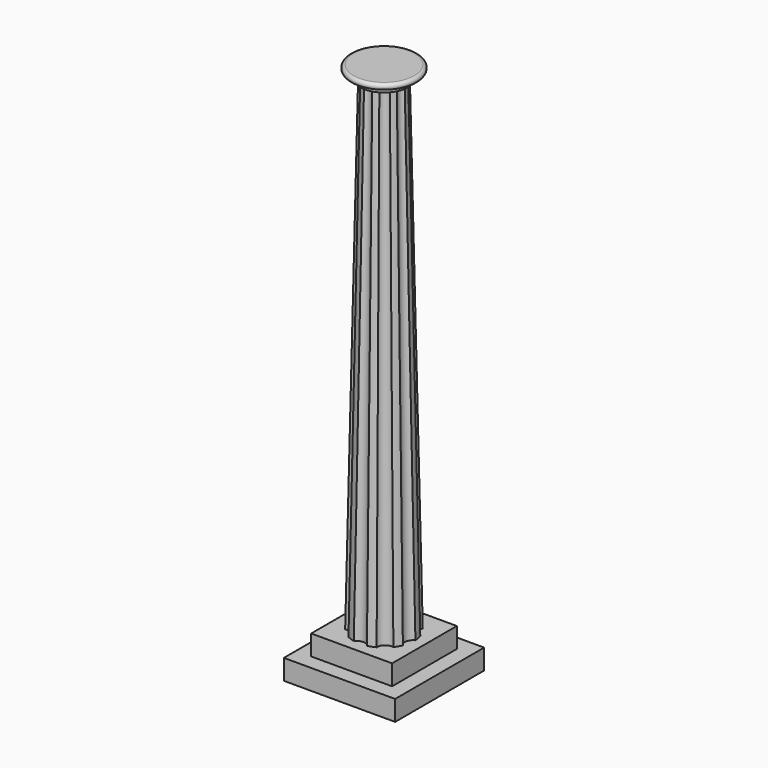
from build123d import *

# Parameters (mm, degrees)
F0_W     = 69.85
F0_H     = 69.85
F0_W_2   = 50.8
F0_H_2   = 50.8
F1_DEPTH = 12.7
F2_DEPTH = 25.4


with BuildPart() as f1:
    # F0 (on Top) → F1 (new body)
    with BuildSketch(Plane.XY):
        Rectangle(F0_W, F0_H)
        Rectangle(F0_W_2, F0_H_2, mode=Mode.SUBTRACT)
        Rectangle(F0_W_2, F0_H_2)
    extrude(amount=F1_DEPTH)

    # F0 (on Top) → F2 (join)
    with BuildSketch(Plane.XY):
        Rectangle(F0_W_2, F0_H_2)
    extrude(amount=F2_DEPTH)

    # F4 (on face) → F6 section 0
    with BuildSketch(Plane.XY.offset(25.4)):
        with BuildLine():
            ThreePointArc((17.625322, -7.228452), (16.266838, -2.823131), (19.030268, 0.866826))
            ThreePointArc((19.030268, 0.866826), (18.75161, 3.358513), (18.148139, 5.792023))
            ThreePointArc((18.148139, 5.792023), (14.275795, 8.293478), (14.020846, 12.896448))
            ThreePointArc((14.020846, 12.896448), (12.205757, 14.626073), (10.179241, 16.102346))
            ThreePointArc((10.179241, 16.102346), (5.604948, 15.529477), (2.450914, 18.891679))
            ThreePointArc((2.450914, 18.891679), (-0.051306, 19.049931), (-2.552638, 18.878203))
            ThreePointArc((-2.552638, 18.878203), (-5.688516, 15.499061), (-10.265828, 16.047283))
            ThreePointArc((-10.265828, 16.047283), (-12.284362, 14.560115), (-14.090109, 12.820738))
            ThreePointArc((-14.090109, 12.820738), (-14.32026, 8.216462), (-18.179075, 5.694185))
            ThreePointArc((-18.179075, 5.694185), (-18.769429, 3.257459), (-19.034661, 0.764308))
            ThreePointArc((-19.034661, 0.764308), (-16.251396, -2.910711), (-17.586131, -7.323285))
            ThreePointArc((-17.586131, -7.323285), (-16.472071, -9.569398), (-15.072684, -11.649751))
            ThreePointArc((-15.072684, -11.649751), (-10.578322, -12.67593), (-8.764441, -16.914109))
            ThreePointArc((-8.764441, -16.914109), (-6.467248, -17.918627), (-4.05803, -18.612761))
            ThreePointArc((-4.05803, -18.612761), (0.044465, -16.50994), (4.158228, -18.590633))
            ThreePointArc((4.158228, -18.590633), (6.563672, -17.883532), (8.855421, -16.866654))
            ThreePointArc((8.855421, -16.866654), (10.646447, -12.618766), (15.135216, -11.568393))
            ThreePointArc((15.135216, -11.568393), (16.523377, -9.480533), (17.625322, -7.228452))
        make_face()
    # F5 (on offset) → F6 section 1
    with BuildSketch(Plane.XY.offset(330.2)):
        with BuildLine():
            ThreePointArc((11.798684, -4.699048), (11.256353, -1.984799), (12.694305, 0.380274))
            ThreePointArc((12.694305, 0.380274), (12.507058, 2.205332), (12.058806, 3.984368))
            ThreePointArc((12.058806, 3.984368), (9.89867, 5.715), (9.479967, 8.451049))
            ThreePointArc((9.479967, 8.451049), (8.163403, 9.728764), (6.676479, 10.803454))
            ThreePointArc((6.676479, 10.803454), (3.90929, 10.740687), (1.829847, 12.567484))
            ThreePointArc((1.829847, 12.567484), (0, 12.7), (-1.829847, 12.567484))
            ThreePointArc((-1.829847, 12.567484), (-3.90929, 10.740687), (-6.676479, 10.803454))
            ThreePointArc((-6.676479, 10.803454), (-8.163403, 9.728764), (-9.479967, 8.451049))
            ThreePointArc((-9.479967, 8.451049), (-9.89867, 5.715), (-12.058806, 3.984368))
            ThreePointArc((-12.058806, 3.984368), (-12.507058, 2.205332), (-12.694305, 0.380274))
            ThreePointArc((-12.694305, 0.380274), (-11.256353, -1.984799), (-11.798684, -4.699048))
            ThreePointArc((-11.798684, -4.699048), (-10.998523, -6.35), (-9.968837, -7.868436))
            ThreePointArc((-9.968837, -7.868436), (-7.347062, -8.755888), (-6.017826, -11.183728))
            ThreePointArc((-6.017826, -11.183728), (-4.343656, -11.934096), (-2.578839, -12.435417))
            ThreePointArc((-2.578839, -12.435417), (0, -11.43), (2.578839, -12.435417))
            ThreePointArc((2.578839, -12.435417), (4.343656, -11.934096), (6.017826, -11.183728))
            ThreePointArc((6.017826, -11.183728), (7.347062, -8.755888), (9.968837, -7.868436))
            ThreePointArc((9.968837, -7.868436), (10.998523, -6.35), (11.798684, -4.699048))
        make_face()
    loft()

    # F7 (on Front) → F8 (revolve)
    with BuildSketch(Plane.XZ):
        with BuildLine():
            Line((0, 337.82), (0, 330.2))
            Line((0, 330.2), (15.24, 330.2))
            Line((15.24, 330.2), (15.24, 334.01))
            Line((15.24, 334.01), (19.05, 334.01))
            ThreePointArc((19.05, 334.01), (20.955, 335.915), (19.05, 337.82))
            Line((19.05, 337.82), (0, 337.82))
        make_face()
    revolve(axis=Axis((0, 0, 334.01), (0, 0, -1)))


solid = f1.part
